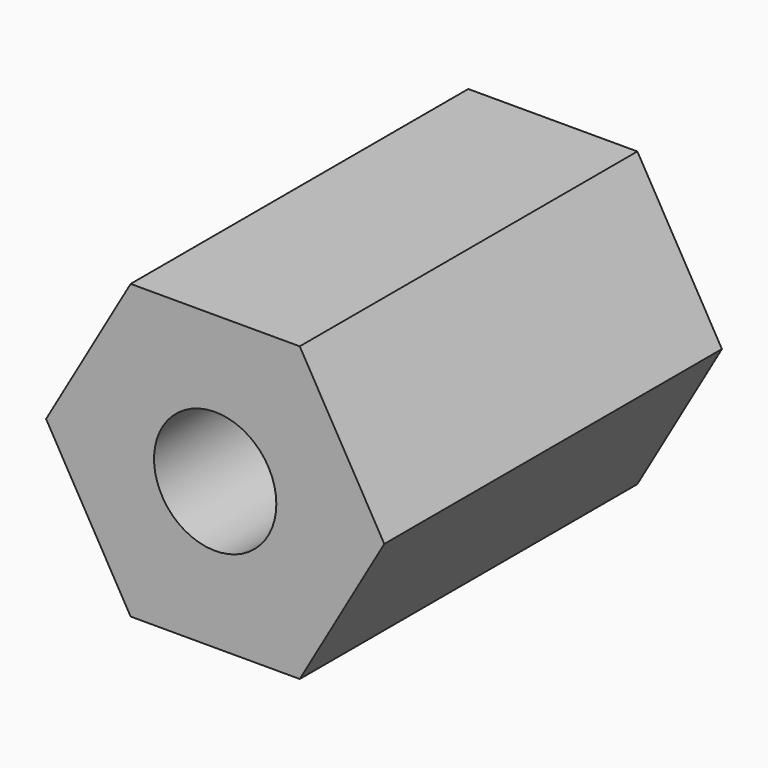
from build123d import *

# Parameters (mm, degrees)
F0_R     = 3.62198
F1_DEPTH = 25
F2_DEPTH = 25


with BuildPart() as f1:
    # F0 (on Front) → F1 (new body)
    with BuildSketch(Plane.XZ):
        Polygon((-24.293795, 32.097615), (-34.310859, 32.097615), (-39.31939, 23.422584), (-34.310859, 14.747553), (-24.293795, 14.747553), (-19.285264, 23.422584), align=None)
        with Locations((-29.302327, 23.422584)):
            Circle(F0_R, mode=Mode.SUBTRACT)
        with Locations((-29.302327, 23.422584)):
            Circle(F0_R)
    extrude(amount=F1_DEPTH)

    # F0 (on Front) → F2 (cut)
    with BuildSketch(Plane.XZ):
        with Locations((-29.302327, 23.422584)):
            Circle(F0_R)
    extrude(amount=F2_DEPTH, mode=Mode.SUBTRACT)


solid = f1.part
